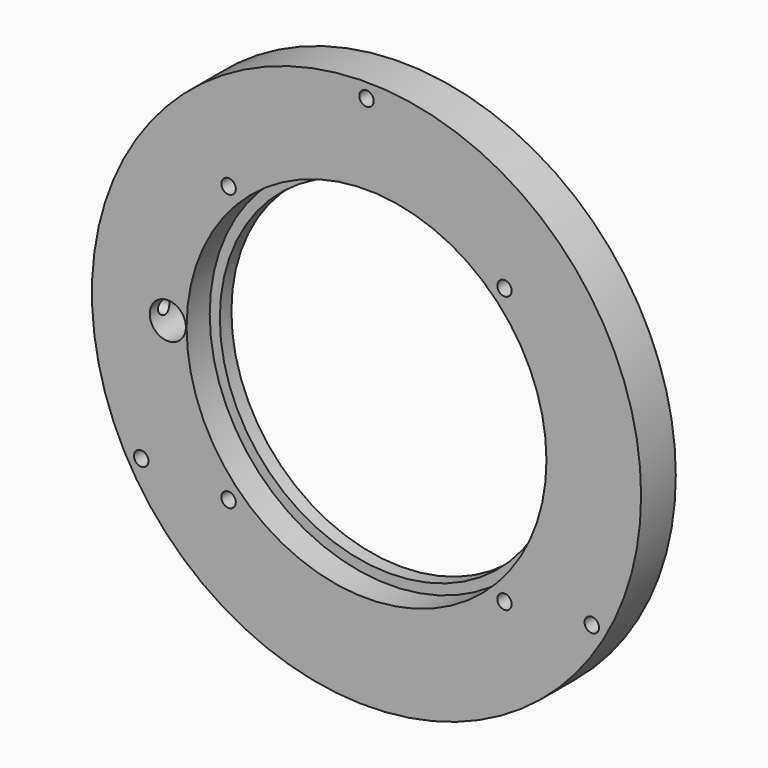
from build123d import *

# Parameters (mm, degrees)
F0_R      = 38
F0_R_2    = 23.5
F1_DEPTH  = 6
F2_R      = 24.9
F3_DEPTH  = 4
F5_D      = 3
F5_DEPTH  = 5
F5_TIP    = 0.9012909285
F6_D      = 2
F8_D      = 2
F8_DEPTH  = 5
F8_TIP    = 0.600860619
F9_R      = 2.5
F10_DEPTH = 5
F13_D     = 2
F13_DEPTH = 10
F13_START = 2.0131603
F13_TIP   = 0.600860619


with BuildPart() as f1:
    # F0 (on Front) → F1 (new body)
    with BuildSketch(Plane.XZ):
        Circle(F0_R)
        Circle(F0_R_2, mode=Mode.SUBTRACT)
    extrude(amount=F1_DEPTH)

    # F2 (on face) → F3 (cut)
    with BuildSketch(Plane.XZ.offset(6)):
        Circle(F2_R)
    extrude(amount=-F3_DEPTH, mode=Mode.SUBTRACT)

    # F5
    with Locations(Plane(origin=(0, 0, 0), x_dir=(-1, 0, 0), z_dir=(0, 1, 0))):
        with Locations((23.3826859022, 13.5), (-23.3826859022, 13.5), (0, -27)):
            Hole(F5_D / 2, depth=F5_DEPTH)
            with Locations((0, 0, -(F5_DEPTH + F5_TIP / 2))):  # 118° drill point
                Cone(0, F5_D / 2, F5_TIP, mode=Mode.SUBTRACT)

    # F6 (through all)
    with Locations(Plane(origin=(0, 0, 0), x_dir=(-1, 0, 0), z_dir=(0, 1, 0))):
        with Locations((0, 36), (-31.1769145362, -18), (31.1769145362, -18)):
            Hole(F6_D / 2)

    # F8
    with Locations(Plane.XZ.offset(6)):
        with Locations((-19.091883092, 19.091883092), (-19.091883092, -19.091883092), (19.091883092, -19.091883092), (19.091883092, 19.091883092)):
            Hole(F8_D / 2, depth=F8_DEPTH)
            with Locations((0, 0, -(F8_DEPTH + F8_TIP / 2))):  # 118° drill point
                Cone(0, F8_D / 2, F8_TIP, mode=Mode.SUBTRACT)

    # F9 (on face) → F10 (cut)
    with BuildSketch(Plane.XZ.offset(6)):
        with Locations((-27.5, 0)):
            Circle(F9_R)
    extrude(amount=-F10_DEPTH, mode=Mode.SUBTRACT)

    # F13
    # its depths count from where the whole tool has entered the part; down to there all is cleared
    with Locations(Plane(origin=(-40, 0, 0), x_dir=(0, 1, 0), z_dir=(-1, 0, 0)).offset(-F13_START)):
        with Locations((-3.6, 0)):
            Hole(F13_D / 2, depth=F13_DEPTH)
            with Locations((0, 0, -(F13_DEPTH + F13_TIP / 2))):  # 118° drill point
                Cone(0, F13_D / 2, F13_TIP, mode=Mode.SUBTRACT)


solid = f1.part
